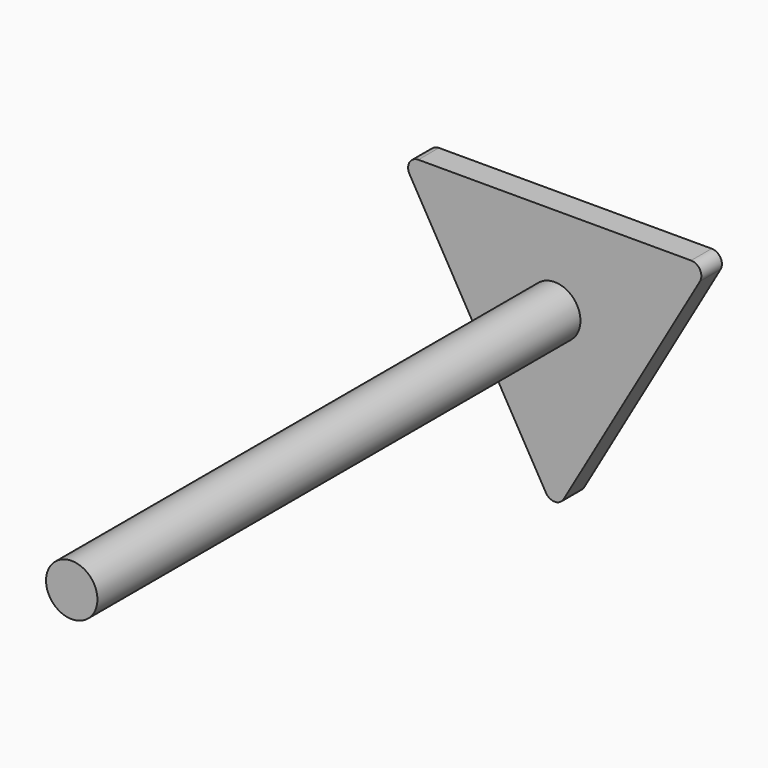
from build123d import *

# Parameters (mm, degrees)
F0_R     = 12.7
F1_DEPTH = 6.35
F2_R     = 5.08
F3_DEPTH = 304.8


with BuildPart() as f1:
    # F0 (on Front) → F1 (new body, symmetric)
    with BuildSketch(Plane.XZ):
        Polygon((76.2, 43.994091), (-76.2, 43.994091), (0, -87.988181), align=None)
        Circle(F0_R, mode=Mode.SUBTRACT)
    extrude(amount=F1_DEPTH, both=True)

    # F2
    f2_edges = [f1.edges().sort_by_distance(p)[0] for p in [
        (0, 0, -87.988181),
        (76.2, 0, 43.994091),
        (-76.2, 0, 43.994091),
    ]]
    fillet(f2_edges, radius=F2_R)

    # F0 (on Front) → F3 (join)
    with BuildSketch(Plane.XZ):
        Circle(F0_R)
    extrude(amount=F3_DEPTH)


solid = f1.part
